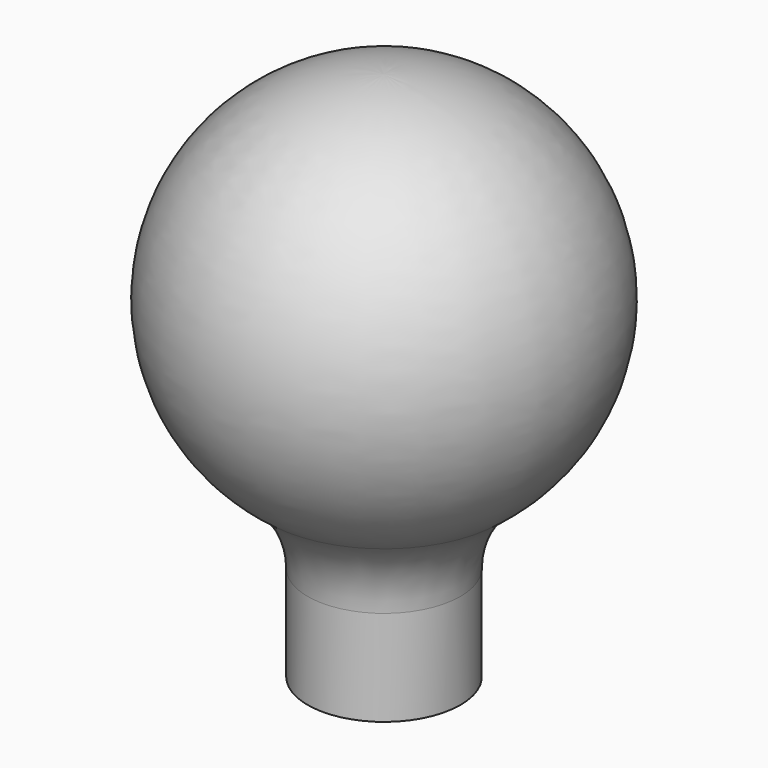
from build123d import *

# Parameters (mm, degrees)
F2_T = -0.5


with BuildPart() as f1:
    # F0 (on Front) → F1 (revolve)
    with BuildSketch(Plane.XZ):
        with BuildLine():
            ThreePointArc((12, 15), (13.63839, 21.816699), (18.195652, 27.144277))
            ThreePointArc((18.195652, 27.144277), (29.487653, 61.806879), (0, 83.242449))
            Line((0, 83.242449), (0, 0))
            Line((0, 0), (12, 0))
            Line((12, 0), (12, 15))
        make_face()
    revolve(axis=Axis((0, 0, 41.621224), (0, 0, 1)))

    # F2
    f2_openings = [f1.faces().sort_by_distance(p)[0] for p in [
        (0, 0, 0),
    ]]
    offset(amount=F2_T, openings=f2_openings)


solid = f1.part
